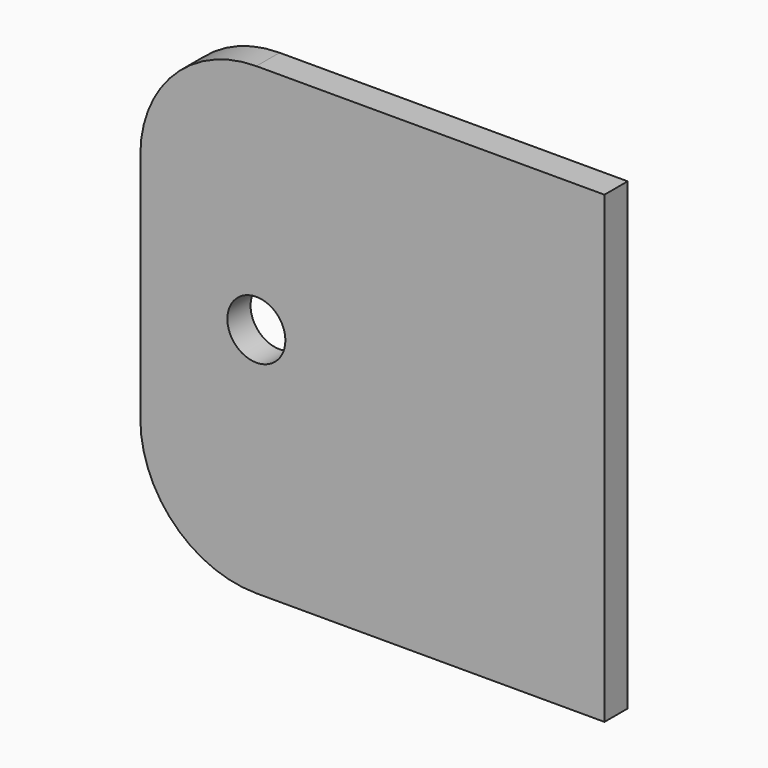
from build123d import *

# Parameters (mm, degrees)
F0_R     = 3.175
F1_DEPTH = 3.175


with BuildPart() as f1:
    # F0 (on Front) → F1 (new body)
    with BuildSketch(Plane.XZ):
        with BuildLine():
            Line((72.763949, 38.438796), (34.663949, 38.438796))
            ThreePointArc((34.663949, 38.438796), (25.683693, 34.719052), (21.963949, 25.738796))
            Line((21.963949, 25.738796), (21.963949, 0.338796))
            ThreePointArc((21.963949, 0.338796), (25.683693, -8.64146), (34.663949, -12.361204))
            Line((34.663949, -12.361204), (72.763949, -12.361204))
            Line((72.763949, -12.361204), (72.763949, 38.438796))
        make_face()
        with Locations((34.663949, 13.038796)):
            Circle(F0_R, mode=Mode.SUBTRACT)
    extrude(amount=F1_DEPTH)


solid = f1.part
